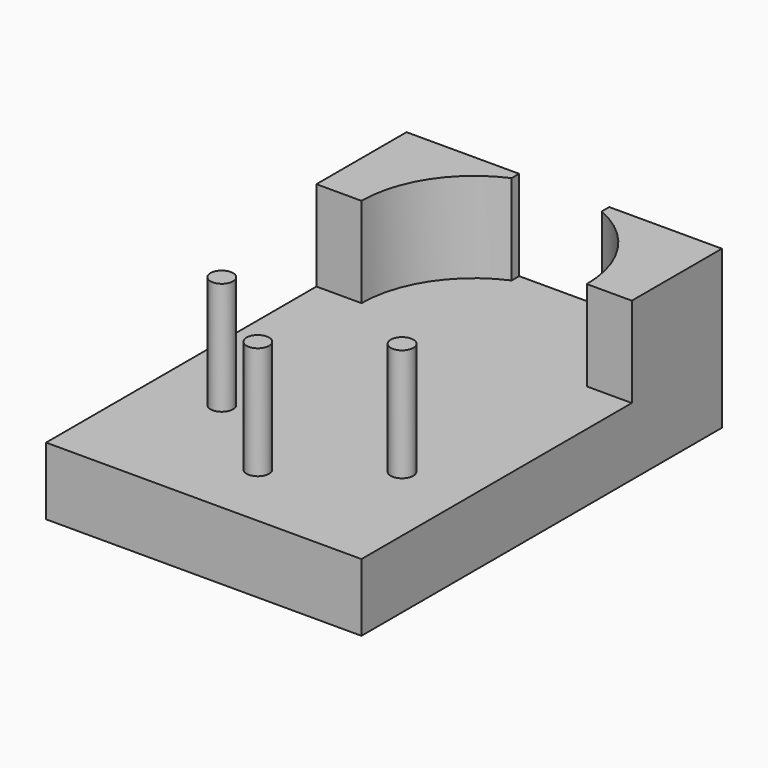
from build123d import *

# Parameters (mm, degrees)
F0_W     = 70
F0_H     = 100
F1_DEPTH = 15
F3_DEPTH = 20
F4_R     = 2.5
F5_DEPTH = 25


with BuildPart() as f1:
    # F0 (on Top) → F1 (new body)
    with BuildSketch(Plane.XY):
        Rectangle(F0_W, F0_H)
    extrude(amount=-F1_DEPTH)

    # F2 (on face) → F3 (join)
    with BuildSketch(Plane.XY):
        with BuildLine():
            Line((-10, 47.912878), (-10, 50))
            Line((-10, 50), (-35, 50))
            Line((-35, 50), (-35, 25))
            Line((-35, 25), (-25, 25))
            ThreePointArc((-25, 25), (-20.916501, 38.693064), (-10, 47.912878))
        make_face()
        with BuildLine():
            ThreePointArc((10, 47.912878), (20.916501, 38.693064), (25, 25))
            Line((25, 25), (35, 25))
            Line((35, 25), (35, 50))
            Line((35, 50), (10, 50))
            Line((10, 50), (10, 47.912878))
        make_face()
    extrude(amount=F3_DEPTH)

    # F4 (on face) → F5 (join)
    with BuildSketch(Plane.XY):
        with Locations((-20, -20)):
            Circle(F4_R)
        with Locations((0, -35)):
            Circle(F4_R)
        with Locations((20, -20)):
            Circle(F4_R)
    extrude(amount=F5_DEPTH)


solid = f1.part
